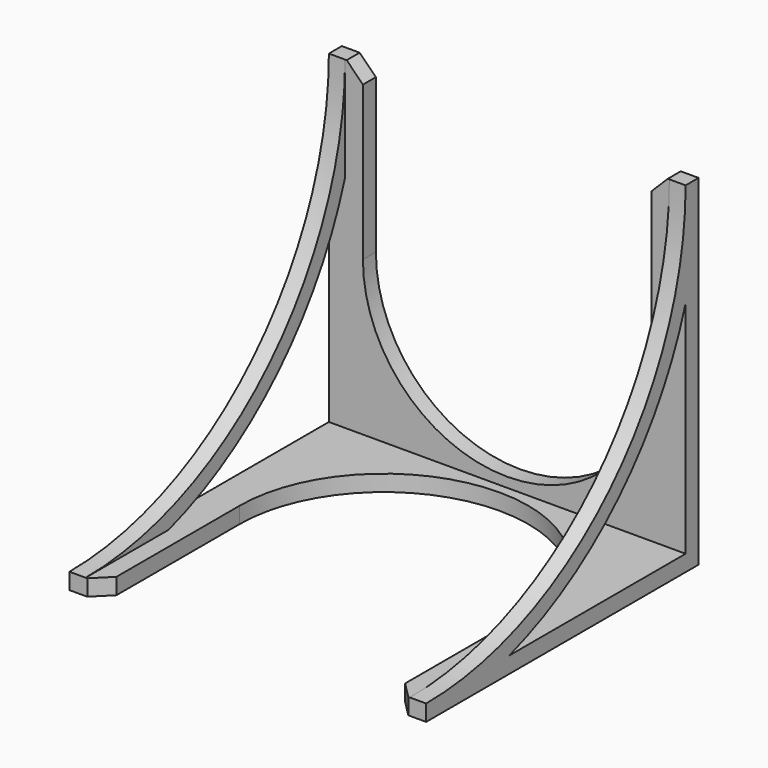
from build123d import *

# Parameters (mm, degrees)
F0_W      = 110
F0_H      = 105
F1_DEPTH  = 5
F2_W      = 110
F2_H      = 5
F3_DEPTH  = 100
F5_DEPTH  = 5
F8_DEPTH  = 5.001
F10_DEPTH = 105.001
F11_SIZE  = 5


with BuildPart() as f1:
    # F0 (on Top) → F1 (new body)
    with BuildSketch(Plane.XY):
        Rectangle(F0_W, F0_H)
    extrude(amount=F1_DEPTH)

    # F2 (on face) → F3 (join)
    with BuildSketch(Plane.XY.offset(5)):
        with Locations((0, 50)):
            Rectangle(F2_W, F2_H)
    extrude(amount=F3_DEPTH)

    # F4 (on face) → F5 (join)
    with BuildSketch(Plane(origin=(-55, 0, 0), x_dir=(0, -1, 0), z_dir=(-1, 0, 0))):
        with BuildLine():
            ThreePointArc((52.5, 5), (-18.2106781187, 34.2893218813), (-47.5, 105))
            Line((-47.5, 105), (-47.5, 72.9843788128))
            ThreePointArc((-47.5, 72.9843788128), (-21.7462120246, 30.7537879754), (20.4843788128, 5))
            Line((20.4843788128, 5), (52.5, 5))
        make_face()
    extrude(amount=-F5_DEPTH)

    # F6: F1 across plane


with BuildPart() as f1_1:
    add(f1.part)
    add(f1.part.mirror(Plane.YZ))

    # F7 (on face) → F8 (cut, through all)
    with BuildSketch(Plane.XY.offset(5)):
        with BuildLine():
            Line((44.5, -52.5), (44.5, 0))
            ThreePointArc((44.5, 0), (0, 44.5), (-44.5, 0))
            Line((-44.5, 0), (-44.5, -52.5))
            Line((-44.5, -52.5), (44.5, -52.5))
        make_face()
    extrude(amount=-F8_DEPTH, mode=Mode.SUBTRACT)

    # F9 (on face) → F10 (cut, through all)
    with BuildSketch(Plane(origin=(0, 52.5, 0), x_dir=(-1, 0, 0), z_dir=(0, 1, 0))):
        with BuildLine():
            Line((-44.5, 105), (-44.5, 52.5))
            ThreePointArc((-44.5, 52.5), (0, 8), (44.5, 52.5))
            Line((44.5, 52.5), (44.5, 105))
            Line((44.5, 105), (-44.5, 105))
        make_face()
    extrude(amount=-F10_DEPTH, mode=Mode.SUBTRACT)

    # F11
    f11_edges = [f1_1.edges().sort_by_distance(p)[0] for p in [
        (44.5, 50, 105),
        (-44.5, 50, 105),
        (44.5, -52.5, 2.5),
        (-44.5, -52.5, 2.5),
    ]]
    chamfer(f11_edges, length=F11_SIZE)


solid = f1_1.part
